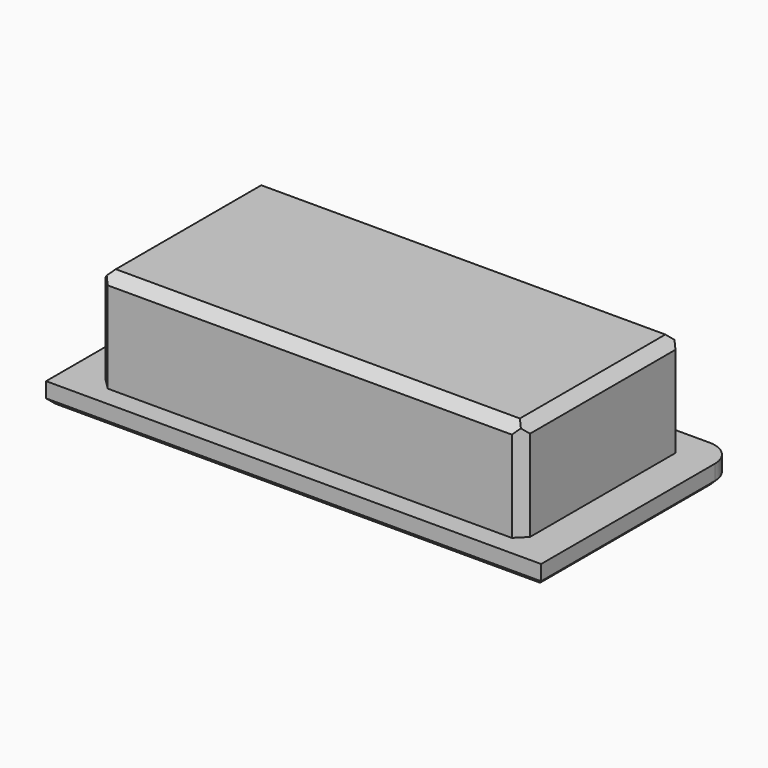
from build123d import *

# Parameters (mm, degrees)
SKETCH_W        = 49
SKETCH_H        = 24
PAD_DEPTH       = 2
SKETCH001_W     = 42
SKETCH001_H     = 20
PAD001_DEPTH    = 10
FILLET_R        = 2.5
CHAMFER_SIZE    = 1
CHAMFER001_SIZE = 1
CHAMFER002_SIZE = 0.5


with BuildPart() as part:
    # Sketch → Pad (new body)
    with BuildSketch(Plane.XY):
        Rectangle(SKETCH_W, SKETCH_H)
    extrude(amount=PAD_DEPTH)

    # Sketch001 (on Face6 of Pad) → Pad001 (join)
    with BuildSketch(Plane.XY.offset(2)):
        Rectangle(SKETCH001_W, SKETCH001_H)
    extrude(amount=PAD001_DEPTH)

    # Fillet
    fillet_edges = [part.edges().sort_by_distance(p)[0] for p in [
        (24.5, 12, 1),
        (-24.5, 12, 1),
    ]]
    fillet(fillet_edges, radius=FILLET_R)

    # Chamfer
    chamfer_edges = [part.edges().sort_by_distance(p)[0] for p in [
        (-21, 0, 12),
        (0, -10, 12),
        (21, 0, 12),
        (0, 10, 12),
    ]]
    chamfer(chamfer_edges, length=CHAMFER_SIZE)

    # Chamfer001
    chamfer001_edges = [part.edges().sort_by_distance(p)[0] for p in [
        (-21, -10, 6.5),
        (-21, 10, 6.5),
        (21, -10, 6.5),
        (21, 10, 6.5),
    ]]
    chamfer(chamfer001_edges, length=CHAMFER001_SIZE)

    # Chamfer002
    chamfer002_edges = [part.edges().sort_by_distance(p)[0] for p in [
        (0, 12, 0),
        (24.5, -1.25, 0),
        (23.767767, 11.267767, 0),
        (-23.767767, 11.267767, 0),
        (-24.5, -1.25, 0),
        (0, -12, 0),
    ]]
    chamfer(chamfer002_edges, length=CHAMFER002_SIZE)


solid = part.part
